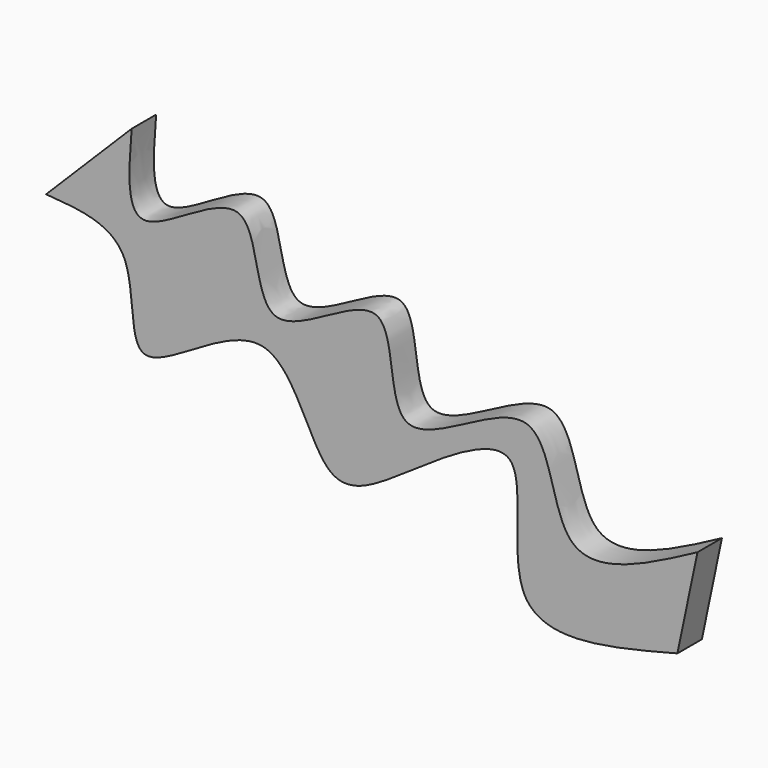
from build123d import *

# Parameters (mm, degrees)
F1_DEPTH = 8.0731287599


with BuildPart() as f1:
    # F0 (on Front) → F1 (new body)
    with BuildSketch(Plane.XZ):
        with BuildLine():
            add(Edge.make_bspline(
                [(-52.298694849, 75.0903338194), (-53.1090154629, 65.1109435783), (-54.8470931416, 43.7059007608), (-17.0565533016, 78.9380783989), (-21.5962659337, 28.760169603), (20.3892725463, 68.39039215), (12.0479042719, 13.8273995011), (59.1845908528, 56.5020698561), (57.886907057, 4.3948174791), (83.43998813, 17.9854618921), (97.0680117607, 25.2335965633)],
                knots=[0, 0, 0, 0, 0.1093576418, 0.2345639333, 0.3495122414, 0.4780745678, 0.5954747582, 0.7341845887, 0.8582339434, 1, 1, 1, 1], degree=3))
            Line((-52.298694849, 75.0903338194), (-74.8868584633, 52.5021776557))
            add(Edge.make_bspline(
                [(-74.8868584633, 52.5021776557), (-66.2161097043, 51.9070820437), (-48.9856441448, 50.7245124403), (-55.9771975903, 9.5660493637), (-12.7243235126, 52.0414402194), (-2.9682767949, 3.1827331411), (19.6402995791, 18.3237854628), (56.566812126, 43.9845548791), (41.6484017266, -12.922805249), (74.3498623107, -4.4926326888), (91.7770862579, 0)],
                knots=[0, 0, 0, 0, 0.1106085402, 0.2198006633, 0.3551489675, 0.4829879019, 0.5917558332, 0.720032526, 0.8507991761, 1, 1, 1, 1], degree=3))
            Line((91.7770862579, 0), (97.0680117607, 25.2335965633))
        make_face()
    extrude(amount=F1_DEPTH)


solid = f1.part
